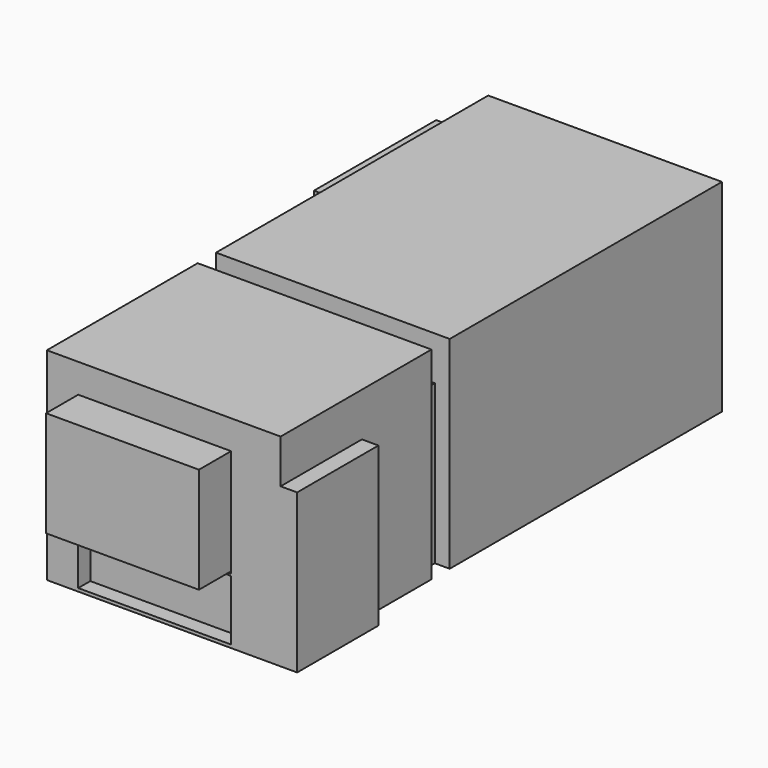
from build123d import *

# Parameters (mm, degrees)
F0_W      = 3096
F0_H      = 4507
F1_DEPTH  = 2680
F2_W      = 2025
F2_H      = 1400
F3_DEPTH  = 532
F4_W      = 2025
F4_H      = 1400
F5_DEPTH  = 532
F6_W      = 2025
F6_H      = 800
F7_DEPTH  = 200
F8_W      = 2700
F8_H      = 303
F9_DEPTH  = 2100
F11_DEPTH = 2680
F12_W     = 219
F12_H     = 1346
F13_DEPTH = 2100
F14_W     = 2025
F14_H     = 1400
F15_DEPTH = 532
F17_SIZE  = 10
F19_W     = 2025
F19_H     = 30
F20_DEPTH = 200
F21_W     = 2025
F21_H     = 30
F22_DEPTH = 180
F18_W     = 2025
F18_H     = 800
F23_DEPTH = 200
F24_W     = 2025
F24_H     = 30
F25_DEPTH = 200
F26_W     = 2025
F26_H     = 800
F27_DEPTH = 200


with BuildPart() as f1:
    # F0 (on Top) → F1 (new body)
    with BuildSketch(Plane.XY):
        with Locations((-1.140241, 1181.228137)):
            Rectangle(F0_W, F0_H)
    extrude(amount=F1_DEPTH)

    # F2 (on face) → F3 (join)
    with BuildSketch(Plane(origin=(0, 3434.728137, 0), x_dir=(-1, 0, 0), z_dir=(0, 1, 0))):
        with Locations((-1.359759, 1600)):
            Rectangle(F2_W, F2_H)
    extrude(amount=F3_DEPTH)

    # F4 (on face) → F5 (join)
    with BuildSketch(Plane(origin=(-1549.140241, 0, 0), x_dir=(0, -1, 0), z_dir=(-1, 0, 0))):
        with Locations((-2226.228137, 1600)):
            Rectangle(F4_W, F4_H)
    extrude(amount=F5_DEPTH)

    # F6 (on face) → F7 (cut)
    with BuildSketch(Plane(origin=(0, 3434.728137, 0), x_dir=(-1, 0, 0), z_dir=(0, 1, 0))):
        with Locations((-1.359759, 435)):
            Rectangle(F6_W, F6_H)
    extrude(amount=-F7_DEPTH, mode=Mode.SUBTRACT)

    # F8 (on face) → F9 (join)
    with BuildSketch(Plane(origin=(0, 0, 0), x_dir=(1, 0, 0), z_dir=(0, 0, -1))):
        with Locations((-1.140241, 1223.771863)):
            Rectangle(F8_W, F8_H)
    extrude(amount=-F9_DEPTH)

    # F10 (on face) → F11 (join)
    with BuildSketch(Plane(origin=(0, 0, 0), x_dir=(1, 0, 0), z_dir=(0, 0, -1))):
        Polygon((-1549.140241, 3872.271863), (-1549.140241, 1375.271863), (-1351.140241, 1375.271863), (1546.859759, 1375.271863), (1546.859759, 3872.271863), align=None)
    extrude(amount=-F11_DEPTH)

    # F12 (on face) → F13 (join)
    with BuildSketch(Plane(origin=(0, 0, 0), x_dir=(1, 0, 0), z_dir=(0, 0, -1))):
        with Locations((1656.359759, 3199.271863)):
            Rectangle(F12_W, F12_H)
    extrude(amount=-F13_DEPTH)

    # F14 (on face) → F15 (join)
    with BuildSketch(Plane.XZ.offset(3872.271863)):
        with Locations((-121.65477, 1596.527308)):
            Rectangle(F14_W, F14_H)
    extrude(amount=F15_DEPTH)

    # F17
    f17_edges = [f1.edges().sort_by_distance(p)[0] for p in [
        (1.359759, 3966.728137, 900),
    ]]
    chamfer(f17_edges, length=F17_SIZE)

    # F19 (on face) → F20 (cut)
    with BuildSketch(Plane(origin=(0, 3434.728137, 0), x_dir=(-1, 0, 0), z_dir=(0, 1, 0))):
        with Locations((-1.359759, 885)):
            Rectangle(F19_W, F19_H)
    extrude(amount=-F20_DEPTH, mode=Mode.SUBTRACT)

    # F21 (on face) → F22 (cut)
    with BuildSketch(Plane.XZ.offset(3872.271863)):
        with Locations((-121.65477, 881.527308)):
            Rectangle(F21_W, F21_H)
    extrude(amount=-F22_DEPTH, mode=Mode.SUBTRACT)

    # F18 (on face) → F23 (cut)
    with BuildSketch(Plane(origin=(-1549.140241, 0, 0), x_dir=(0, -1, 0), z_dir=(-1, 0, 0))):
        with Locations((-2226.228137, 460)):
            Rectangle(F18_W, F18_H)
    extrude(amount=-F23_DEPTH, mode=Mode.SUBTRACT)

    # F24 (on face) → F25 (cut)
    with BuildSketch(Plane(origin=(-1549.140241, 0, 0), x_dir=(0, -1, 0), z_dir=(-1, 0, 0))):
        with Locations((-2226.228137, 885)):
            Rectangle(F24_W, F24_H)
    extrude(amount=-F25_DEPTH, mode=Mode.SUBTRACT)

    # F26 (on face) → F27 (cut)
    with BuildSketch(Plane.XZ.offset(3872.271863)):
        with Locations((-121.65477, 441.527308)):
            Rectangle(F26_W, F26_H)
    extrude(amount=-F27_DEPTH, mode=Mode.SUBTRACT)


solid = f1.part
